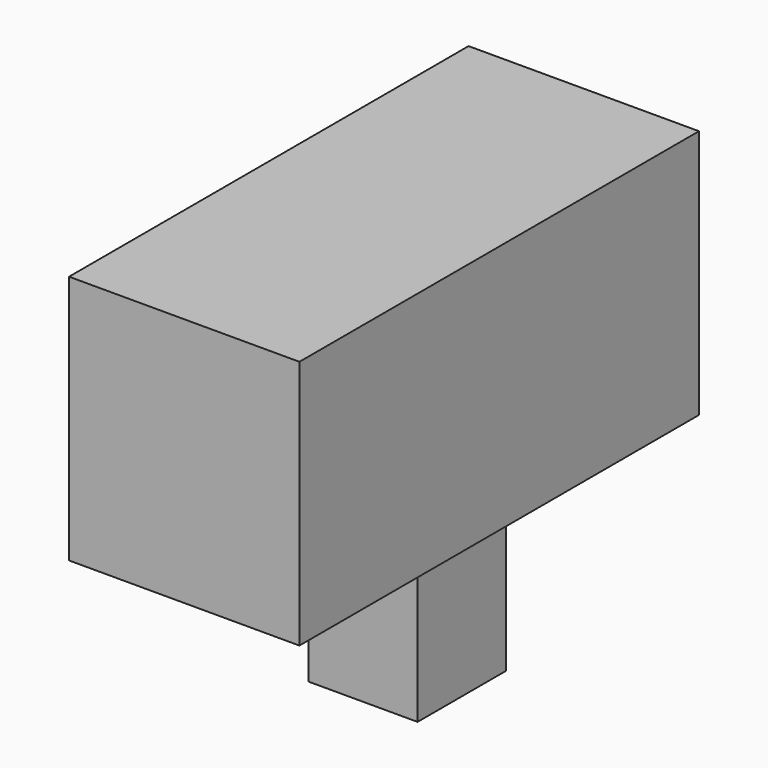
from build123d import *

# Parameters (mm, degrees)
F0_W     = 53.766709
F0_H     = 58.301404
F1_DEPTH = 116.54301
F2_W     = 25.484789
F2_H     = 25.836997
F3_DEPTH = 99.76767


with BuildPart() as f1:
    # F0 (on Front) → F1 (new body)
    with BuildSketch(Plane.XZ):
        with Locations((-26.883354, 29.150702)):
            Rectangle(F0_W, F0_H)
    extrude(amount=F1_DEPTH)

    # F2 (on face) → F3 (join)
    with BuildSketch(Plane.XY.offset(58.301404)):
        with Locations((-26.87069, -51.501912)):
            Rectangle(F2_W, F2_H)
    extrude(amount=-F3_DEPTH)


solid = f1.part
